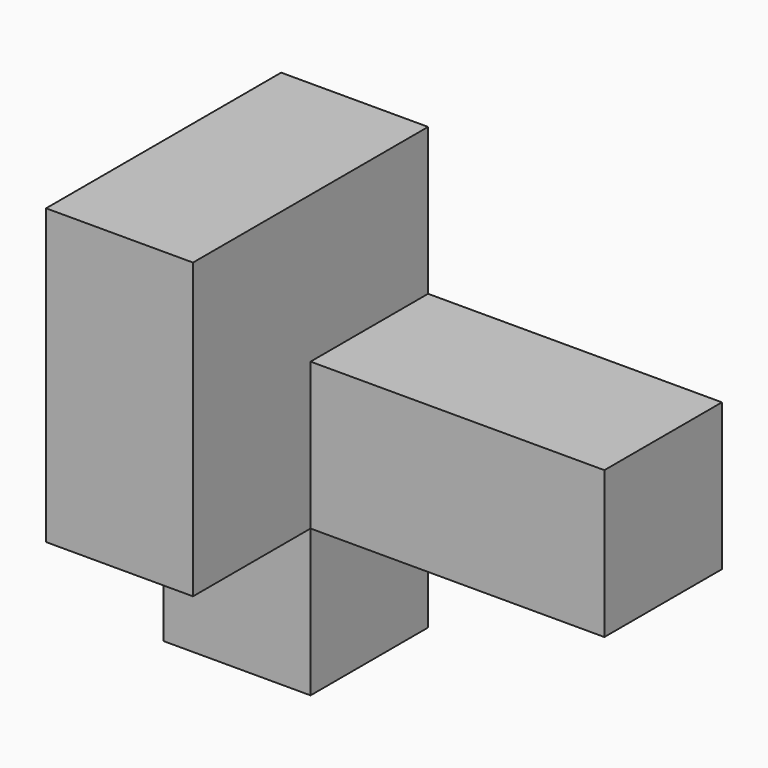
from build123d import *

# Parameters (mm, degrees)
F0_W     = 19.05
F0_H     = 38.1
F1_DEPTH = 57.15
F2_W     = 19.05
F2_H     = 19.05
F3_DEPTH = 19.05
F4_W     = 19.05
F4_H     = 19.05
F5_DEPTH = 38.1


with BuildPart() as f1:
    # F0 (on Top) → F1 (new body)
    with BuildSketch(Plane.XY):
        with Locations((9.525, 19.05)):
            Rectangle(F0_W, F0_H)
    extrude(amount=F1_DEPTH)

    # F2 (on face) → F3 (cut)
    with BuildSketch(Plane(origin=(0, 0, 0), x_dir=(1, 0, 0), z_dir=(0, 0, -1))):
        with Locations((9.525, -9.525)):
            Rectangle(F2_W, F2_H)
    extrude(amount=-F3_DEPTH, mode=Mode.SUBTRACT)

    # F4 (on face) → F5 (join)
    with BuildSketch(Plane.YZ.offset(19.05)):
        with Locations((28.575, 28.575)):
            Rectangle(F4_W, F4_H)
    extrude(amount=F5_DEPTH)


solid = f1.part
